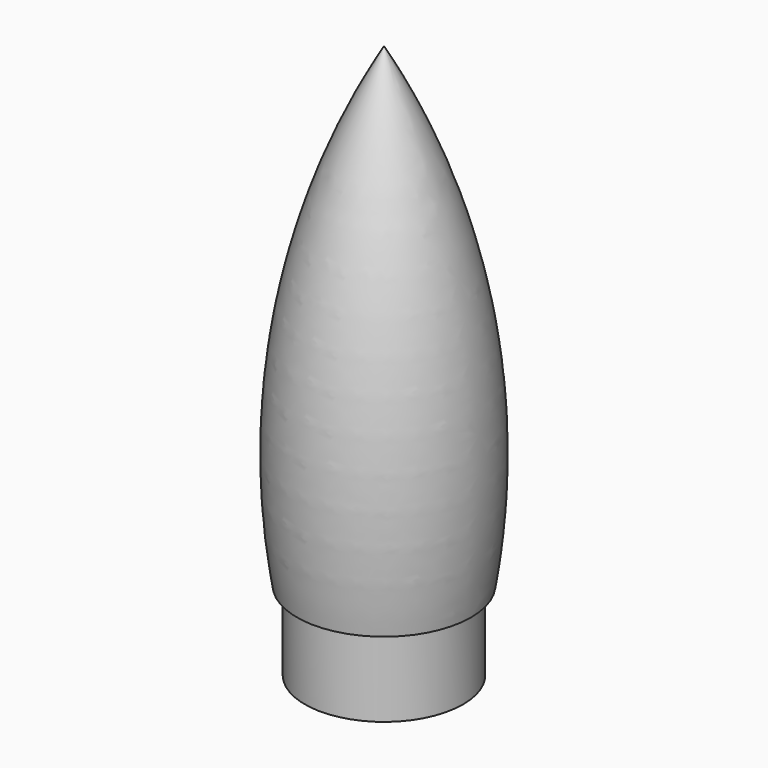
from build123d import *

# Parameters (mm, degrees)
F2_R     = 12.7
F3_DEPTH = 12.7


with BuildPart() as f1:
    # F0 (on Front) → F1 (revolve)
    with BuildSketch(Plane.XZ):
        with BuildLine():
            Line((0, 76.2), (0, 0))
            Line((0, 0), (13.97, 0))
            ThreePointArc((13.97, 0), (13.637664, 39.319655), (0, 76.2))
        make_face()
    revolve(axis=Axis((0, 0, 38.1), (0, 0, 1)))

    # F2 (on face) → F3 (join)
    with BuildSketch(Plane(origin=(0, 0, 0), x_dir=(1, 0, 0), z_dir=(0, 0, -1))):
        Circle(F2_R)
    extrude(amount=F3_DEPTH)


solid = f1.part
